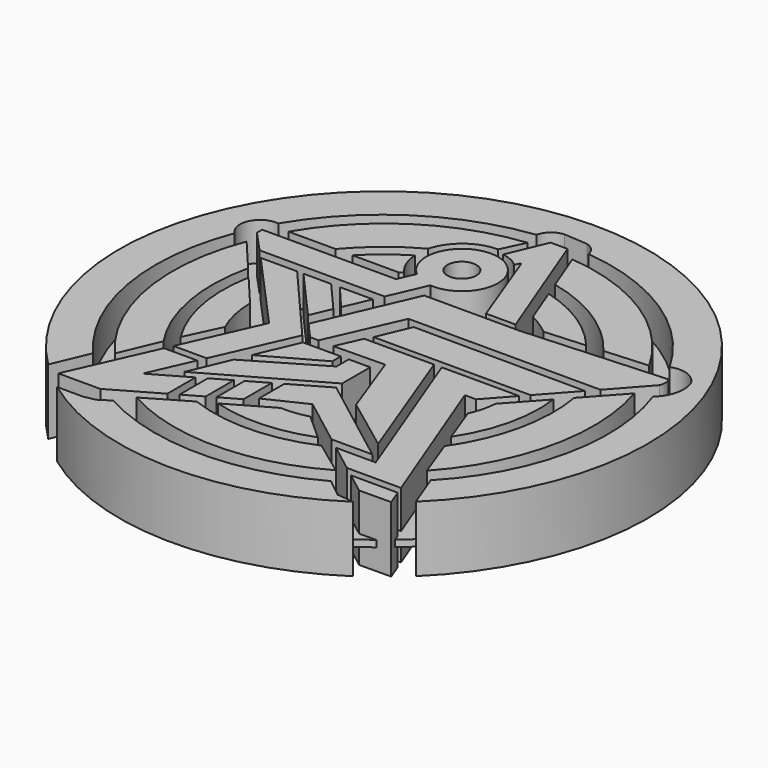
from build123d import *

# Parameters (mm, degrees)
F0_R     = 2.206267
F1_DEPTH = 10
F2_R     = 38.308728
F3_DEPTH = 1


with BuildPart() as f1:
    # F0 (on Top) → F1 (new body)
    with BuildSketch(Plane.XY):
        with BuildLine():
            Line((-8.160051, 10.558454), (-5.707607, 16.196661))
            ThreePointArc((-5.707607, 16.196661), (-3.111134, 26.687053), (-8.783473, 17.488435))
            Line((-8.783473, 17.488435), (-9.9095, 14.899681))
            Line((-9.9095, 14.899681), (-30.305685, 14.899681))
            Line((-30.305685, 14.899681), (-30.305685, 13.89939))
            Line((-30.305685, 13.89939), (-27.231621, 10.558454))
            Line((-27.231621, 10.558454), (-8.160051, 10.558454))
        make_face()
        with Locations((-5.211, 21.597698)):
            Circle(F0_R, mode=Mode.SUBTRACT)
        with BuildLine():
            Line((-17.791193, 16.456968), (-10.785356, 16.456968))
            Line((-10.785356, 16.456968), (-10.160225, 16.788259))
            ThreePointArc((-10.160225, 16.788259), (-11.443322, 18.775511), (-11.945411, 21.087093))
            ThreePointArc((-11.945411, 21.087093), (-15.037333, 18.98544), (-17.791193, 16.456968))
        make_face()
        with BuildLine():
            ThreePointArc((-11.828013, 23.421209), (-9.361755, 27.062532), (-5.201459, 28.488573))
            Line((-5.201459, 28.488573), (-3.519176, 32.017265))
            ThreePointArc((-3.519176, 32.017265), (-17.378382, 27.098752), (-27.543692, 16.471624))
            Line((-27.543692, 16.471624), (-20.377357, 16.471624))
            ThreePointArc((-20.377357, 16.471624), (-16.425684, 20.343769), (-11.828013, 23.421209))
        make_face()
        with BuildLine():
            Line((-1.424065, 33.751212), (-3.916716, 27.801674))
            ThreePointArc((-3.916716, 27.801674), (-2.478493, 27.411224), (-1.244485, 26.575664))
            Line((-1.244485, 26.575664), (-0.780935, 27.44177))
            Line((-0.780935, 27.44177), (4.016954, 14.658319))
            Line((4.016954, 14.658319), (8.524759, 14.658319))
            Line((8.524759, 14.658319), (1.171164, 33.751212))
            Line((1.171164, 33.751212), (-1.424065, 33.751212))
        make_face()
        with BuildLine():
            ThreePointArc((5.767185, 25.624841), (14.221769, 22.091625), (20.949973, 15.871104))
            Line((20.949973, 15.871104), (27.561305, 16.318588))
            ThreePointArc((27.561305, 16.318588), (17.358373, 27.127784), (3.313791, 31.994841))
            Line((3.313791, 31.994841), (5.767185, 25.624841))
        make_face()
        with BuildLine():
            ThreePointArc((8.900849, 17.488588), (10.661104, 16.477152), (12.305066, 15.28598))
            Line((12.305066, 15.28598), (18.460409, 15.7026))
            ThreePointArc((18.460409, 15.7026), (13.146853, 20.411615), (6.661868, 23.301885))
            Line((6.661868, 23.301885), (8.900849, 17.488588))
        make_face()
        with BuildLine():
            Line((-8.538652, -3.18479), (-7.246167, -3.18479))
            Line((-7.246167, -3.18479), (-2.347436, 7.836217))
            Line((-2.347436, 7.836217), (26.92967, 7.836217))
            Line((26.92967, 7.836217), (31.664651, 13.121196))
            ThreePointArc((31.664651, 13.121196), (31.858951, 14.060598), (31.599302, 14.984076))
            Line((31.599302, 14.984076), (9.878736, 13.694647))
            Line((9.878736, 13.694647), (-4.634531, 13.694647))
            Line((-4.634531, 13.694647), (-10.844227, -0.581539))
            Line((-10.844227, -0.581539), (-8.538652, -3.18479))
        make_face()
        Polygon((21.305793, 1.559091), (25.676703, 6.43771), (-0.540337, 6.552964), (-2.632372, 1.559091), align=None)
        Polygon((-8.789597, 9.111119), (-13.819853, 9.111119), (-10.500227, 5.178354), align=None)
        Polygon((-15.15337, 9.111119), (-19.379593, 9.111119), (-12.277591, 1.092167), (-10.914928, 4.224951), align=None)
        Polygon((-20.343829, 9.111119), (-25.89998, 9.111119), (-14.624785, -3.388615), (-19.824501, -15.111743), (-14.757672, -15.111743), (-9.557957, -3.388615), align=None)
        Polygon((-8.369185, -4.767408), (-11.06822, -11.112422), (-2.587006, -6.389737), (-2.587006, -4.767408), align=None)
        Polygon((1.899398, -4.767408), (-1.367139, -4.767408), (-1.367139, -7.108427), (-12.030682, -13.37502), (-14.634387, -19.495927), (1.899398, -10.122532), align=None)
        Polygon((7.395385, 0.530604), (-3.236916, 0.530604), (-4.93186, -3.254772), (2.867269, -3.123561), (6.618928, -13.357226), (14.974818, -19.595129), align=None)
        Polygon((16.914712, -3.342042), (20.384338, 0.530604), (8.573711, 0.530604), (17.743919, -23.523211), (11.700341, -23.523211), (15.951396, -26.768949), (24.19761, -26.768949), (15.189558, -3.342042), align=None)
        with BuildLine():
            ThreePointArc((19.421562, -2.806914), (19.10687, -4.849291), (18.409508, -6.794546))
            Line((18.409508, -6.794546), (20.618835, -12.736638))
            ThreePointArc((20.618835, -12.736638), (23.739491, -5.4938), (24.117973, 2.383633))
            Line((24.117973, 2.383633), (19.421562, -2.806914))
        make_face()
        with BuildLine():
            ThreePointArc((25.799285, 4.241845), (25.550424, -5.858298), (21.503319, -15.115499))
            Line((21.503319, -15.115499), (23.827636, -21.366862))
            ThreePointArc((23.827636, -21.366862), (31.374849, -6.786378), (30.661955, 9.616144))
            Line((30.661955, 9.616144), (25.799285, 4.241845))
        make_face()
        with BuildLine():
            ThreePointArc((32.919805, 10.345283), (34.059871, -7.354304), (25.718371, -23.006604))
            Line((25.718371, -23.006604), (27.785989, -28.4341))
            ThreePointArc((27.785989, -28.4341), (40.017536, 1.903412), (25.682096, 31.305292))
            ThreePointArc((25.682096, 31.305292), (-16.017211, 37.170175), (-40.388612, 2.829763))
            ThreePointArc((-40.388612, 2.829763), (-37.779692, -13.947317), (-28.484943, -28.155925))
            Line((-28.484943, -28.155925), (-26.128077, -22.540232))
            ThreePointArc((-26.128077, -22.540232), (-34.033134, -6.060394), (-32.302855, 12.13524))
            ThreePointArc((-32.302855, 12.13524), (-32.936395, 15.641023), (-29.819049, 17.365563))
            ThreePointArc((-29.819049, 17.365563), (-18.858202, 28.813516), (-3.980401, 34.27674))
            ThreePointArc((-3.980401, 34.27674), (-3.067609, 35.791376), (-1.424065, 36.444116))
            Line((-1.424065, 36.444116), (2.216907, 36.202595))
            ThreePointArc((2.216907, 36.202595), (3.358667, 35.47776), (3.980401, 34.27674))
            ThreePointArc((3.980401, 34.27674), (18.861666, 29.014564), (29.710891, 17.54997))
            ThreePointArc((29.710891, 17.54997), (32.316941, 17.568373), (34.292258, 15.868384))
            ThreePointArc((34.292258, 15.868384), (34.451823, 12.89666), (32.919805, 10.345283))
        make_face()
        Polygon((24.659269, -27.969567), (17.523887, -27.969567), (20.705944, -30.39911), (25.577858, -30.358508), align=None)
        with BuildLine():
            ThreePointArc((9.991777, -24.165902), (0.676742, -26.199562), (-8.718491, -24.576217))
            Line((-8.718491, -24.576217), (-14.955248, -28.228002))
            ThreePointArc((-14.955248, -28.228002), (0.186343, -32.118382), (15.284814, -28.063877))
            Line((15.284814, -28.063877), (9.991777, -24.165902))
        make_face()
        with BuildLine():
            Line((21.95497, -33.126518), (19.401744, -32.850493))
            Line((19.401744, -32.850493), (16.586332, -30.608531))
            ThreePointArc((16.586332, -30.608531), (-0.023335, -34.839951), (-16.627841, -30.588325))
            Line((-16.627841, -30.588325), (-18.358964, -31.686813))
            Line((-18.358964, -31.686813), (-20.070761, -32.034975))
            Line((-20.070761, -32.034975), (-24.016598, -32.034975))
            ThreePointArc((-24.016598, -32.034975), (-1.202355, -39.80537), (21.95497, -33.126518))
        make_face()
        with BuildLine():
            ThreePointArc((4.287132, -19.149317), (2.211978, -19.547372), (0.100512, -19.627518))
            Line((0.100512, -19.627518), (-6.427518, -23.367613))
            ThreePointArc((-6.427518, -23.367613), (0.990325, -24.297805), (8.307865, -22.767031))
            Line((8.307865, -22.767031), (4.287132, -19.149317))
        make_face()
        Polygon((-3.413936, -14.486767), (-3.413936, -19.324101), (2.488051, -16.489504), (9.905417, -22.152763), (16.130667, -22.152763), (2.00896, -11.384296), align=None)
        Polygon((-4.727307, -20.617453), (-4.727307, -15.238155), (-7.572549, -16.865935), (-7.572549, -22.245234), align=None)
        Polygon((-8.691986, -22.88567), (-8.691986, -17.506372), (-11.41796, -19.065918), (-11.41796, -24.445216), align=None)
        with BuildLine():
            ThreePointArc((-18.099004, -7.440777), (-19.18001, -4.212386), (-19.570322, -0.830265))
            Line((-19.570322, -0.830265), (-23.858583, 4.257503))
            ThreePointArc((-23.858583, 4.257503), (-23.846933, -4.564648), (-20.599757, -12.767472))
            Line((-20.599757, -12.767472), (-18.099004, -7.440777))
        make_face()
        with BuildLine():
            ThreePointArc((-21.510569, -14.90865), (-25.627291, -4.812603), (-25.401565, 6.088159))
            Line((-25.401565, 6.088159), (-29.848937, 11.364702))
            ThreePointArc((-29.848937, 11.364702), (-31.473546, -5.594543), (-24.077072, -20.942101))
            Line((-24.077072, -20.942101), (-21.510569, -14.90865))
        make_face()
        Polygon((-12.701282, -25.179413), (-12.701282, -19.800114), (-18.243536, -22.970871), (-15.270174, -16.267214), (-20.344572, -16.267214), (-26.11826, -29.194934), (-19.720124, -29.194934), align=None)
    extrude(amount=F1_DEPTH)


with BuildPart() as f3:
    # F2 (on Top) → F3 (new body)
    with BuildSketch(Plane.XY):
        Circle(F2_R)
    extrude(amount=F3_DEPTH)


with BuildPart() as f3_1:
    # F4: moved
    add(f3.part.moved(Location((0, 0, 3.2))))


solid = Compound([f1.part, f3_1.part])
